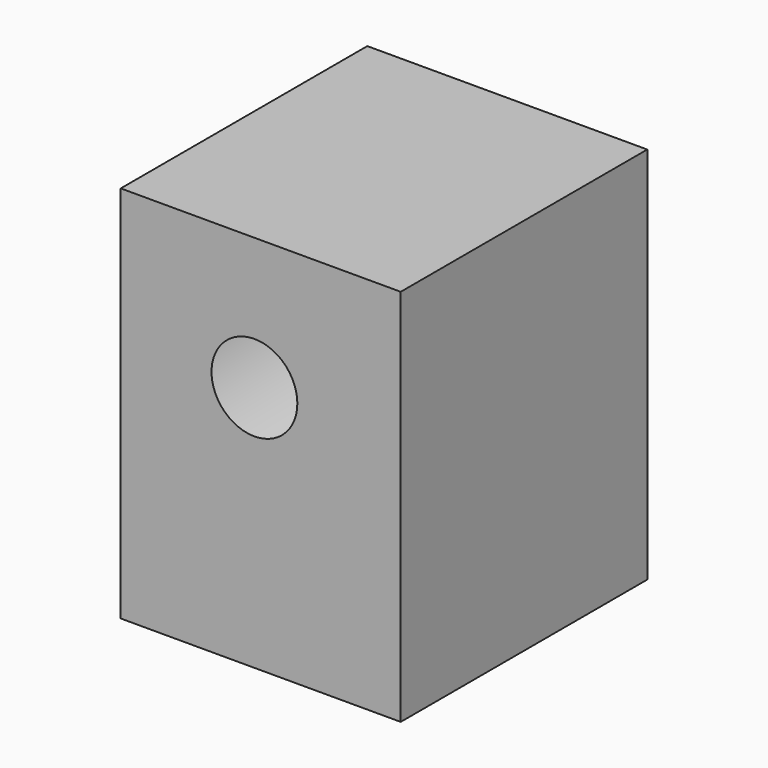
from build123d import *

# Parameters (mm, degrees)
F0_W     = 69.2285113037
F0_H     = 93.6287268996
F2_DEPTH = 76.2
F3_D     = 63.5
F3_DEPTH = 63.5
F3_TIP   = 19.0773246541


with BuildPart() as f2:
    # F0 (on Front) → F2 (new body)
    with BuildSketch(Plane.XZ):
        with Locations((1.5604775399, 6.6675022244)):
            Rectangle(F0_W, F0_H)
    extrude(amount=F2_DEPTH)

    # F3
    with Locations(Plane(origin=(0, 0, 0), x_dir=(1, 0, 0), z_dir=(0, 1, 0))):
        with Locations((0, -20.853670314)):
            Hole(F3_D / 2, depth=F3_DEPTH)
            with Locations((0, 0, -(F3_DEPTH + F3_TIP / 2))):  # 118° drill point
                Cone(0, F3_D / 2, F3_TIP, mode=Mode.SUBTRACT)


solid = f2.part
